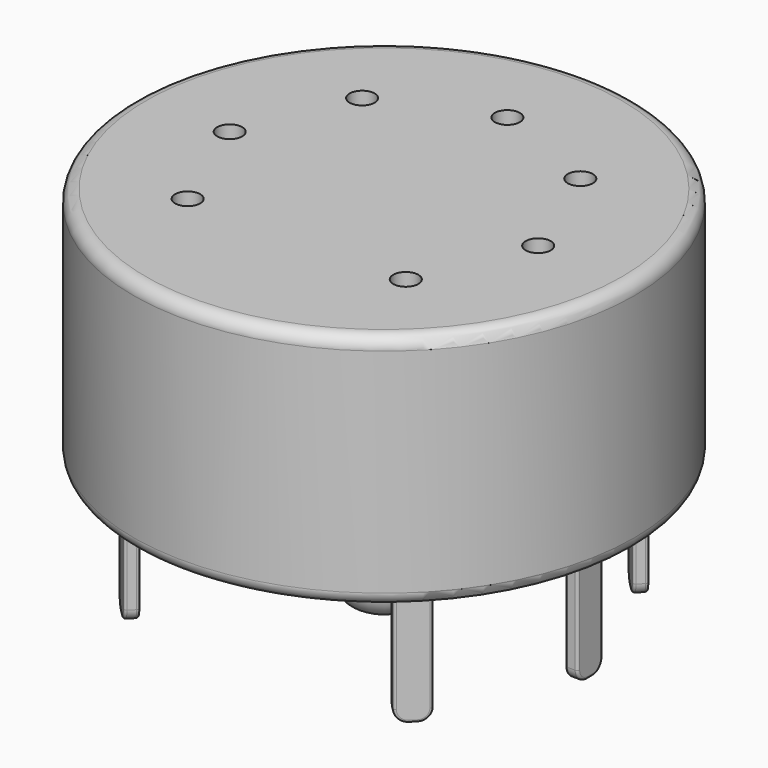
from build123d import *

# Parameters (mm, degrees)
SKETCH_R      = 10
SKETCH_R_2    = 0.5
PAD_DEPTH     = 9.5
SKETCH001_R   = 1.625
SKETCH001_W   = 0.5
SKETCH001_H   = 1.25
SKETCH001_W_2 = 1.25
SKETCH001_H_2 = 0.5
PAD001_DEPTH  = 5
FILLET_R      = 0.49
FILLET001_R   = 0.1
FILLET002_R   = 1
FILLET003_R   = 0.5


with BuildPart() as part:
    # Sketch → Pad (new body)
    with BuildSketch(Plane.XY):
        Circle(SKETCH_R)
        with Locations((4.350829, -4.350829)):
            Circle(SKETCH_R_2, mode=Mode.SUBTRACT)
        with Locations((6.153002, 0)):
            Circle(SKETCH_R_2, mode=Mode.SUBTRACT)
        with Locations((4.350829, 4.350829)):
            Circle(SKETCH_R_2, mode=Mode.SUBTRACT)
        with Locations((0, 6.153002)):
            Circle(SKETCH_R_2, mode=Mode.SUBTRACT)
        with Locations((-4.350829, 4.350829)):
            Circle(SKETCH_R_2, mode=Mode.SUBTRACT)
        with Locations((-6.153002, 0)):
            Circle(SKETCH_R_2, mode=Mode.SUBTRACT)
        with Locations((-4.350829, -4.350829)):
            Circle(SKETCH_R_2, mode=Mode.SUBTRACT)
    extrude(amount=PAD_DEPTH)

    # Sketch001 (on Face9 of Pad) → Pad001 (join)
    with BuildSketch(Plane(origin=(0, 0, 0), x_dir=(1, 0, 0), z_dir=(0, 0, -1))):
        Circle(SKETCH001_R)
        Polygon((-6.258808, 5.374925), (-5.374925, 6.258808), (-5.021372, 5.905255), (-5.905255, 5.021372), align=None)
        with Locations((-7.976292, 0)):
            Rectangle(SKETCH001_W, SKETCH001_H)
        Polygon((-6.258808, -5.374925), (-5.374925, -6.258808), (-5.021372, -5.905255), (-5.905255, -5.021372), align=None)
        with Locations((0, -7.976292)):
            Rectangle(SKETCH001_W_2, SKETCH001_H_2)
        Polygon((5.905255, -5.021372), (5.021372, -5.905255), (5.374925, -6.258808), (6.258808, -5.374925), align=None)
        with Locations((7.976292, 0)):
            Rectangle(SKETCH001_W, SKETCH001_H)
        Polygon((5.374925, 6.258808), (6.258808, 5.374925), (5.905255, 5.021372), (5.021372, 5.905255), align=None)
    extrude(amount=PAD001_DEPTH)

    # Fillet
    fillet_edges = [part.edges().sort_by_distance(p)[0] for p in [
        (5.198148, -6.082032, -5),
        (6.082032, -5.198148, -5),
        (7.976292, -0.625, -5),
        (7.976292, 0.625, -5),
        (6.082032, 5.198148, -5),
        (5.198148, 6.082032, -5),
        (0.625, 7.976292, -5),
        (-0.625, 7.976292, -5),
        (-5.198148, 6.082032, -5),
        (-6.082032, 5.198148, -5),
        (-7.976292, 0.625, -5),
        (-7.976292, -0.625, -5),
        (-6.082032, -5.198148, -5),
        (-5.198148, -6.082032, -5),
    ]]
    fillet(fillet_edges, radius=FILLET_R)

    # Fillet001
    fillet001_edges = [part.edges().sort_by_distance(p)[0] for p in [
        (-6.258808, -5.374925, -2.255),
        (-5.905255, -5.021372, -2.255),
        (-8.226292, 0.625, -2.255),
        (-7.726292, 0.625, -2.255),
        (-5.905255, 5.021372, -2.255),
        (-6.258808, 5.374925, -2.255),
        (-0.625, 7.726292, -2.255),
        (-0.625, 8.226292, -2.255),
        (5.021372, 5.905255, -2.255),
        (5.374925, 6.258808, -2.255),
        (7.726292, 0.625, -2.255),
        (8.226292, 0.625, -2.255),
        (5.374925, -6.258808, -2.255),
        (5.021372, -5.905255, -2.255),
    ]]
    fillet(fillet001_edges, radius=FILLET001_R)

    # Fillet002
    fillet002_edges = [part.edges().sort_by_distance(p)[0] for p in [
        (-1.625, 0, -5),
    ]]
    fillet(fillet002_edges, radius=FILLET002_R)

    # Fillet003
    fillet003_edges = [part.edges().sort_by_distance(p)[0] for p in [
        (-10, 0, 0),
        (-10, 0, 9.5),
    ]]
    fillet(fillet003_edges, radius=FILLET003_R)


solid = part.part
